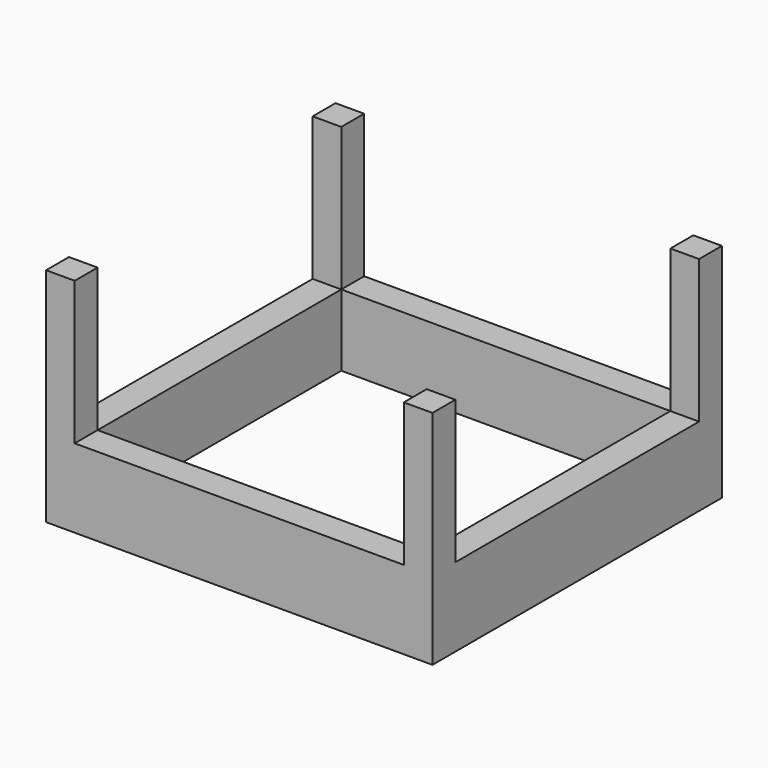
from build123d import *

# Parameters (mm, degrees)
F1_DEPTH = 1.27
F2_W     = 68.58
F2_H     = 64.22644
F2_W_2   = 63.5
F2_H_2   = 59.14644
F2_W_3   = 58.42
F2_H_3   = 54.06644
F3_DEPTH = 12.7
F4_W     = 5.08
F4_H     = 5.08
F5_DEPTH = 25.4


with BuildPart() as f1:
    # F0 (on Top) → F1 (new body)
    with BuildSketch(Plane.XY):
        Polygon((0, -2.54), (0, 0), (0, 59.14644), (63.5, 59.14644), (63.5, 61.68644), (-2.54, 61.68644), (-2.54, 0), (-2.54, -2.54), align=None)
        Polygon((63.5, 0), (0, 0), (0, -2.54), (66.04, -2.54), (66.04, 59.14644), (66.04, 61.68644), (63.5, 61.68644), (63.5, 59.14644), align=None)
    extrude(amount=F1_DEPTH)

    # F2 (on face) → F3 (join)
    with BuildSketch(Plane.XY.offset(1.27)):
        with Locations((31.75, 29.57322)):
            Rectangle(F2_W, F2_H)
        with Locations((31.75, 29.57322)):
            Rectangle(F2_W_2, F2_H_2, mode=Mode.SUBTRACT)
        with Locations((31.75, 29.57322)):
            Rectangle(F2_W_2, F2_H_2)
        with Locations((31.75, 29.57322)):
            Rectangle(F2_W_3, F2_H_3, mode=Mode.SUBTRACT)
    extrude(amount=F3_DEPTH)

    # F4 (on face) → F5 (join)
    with BuildSketch(Plane.XY.offset(13.97)):
        with Locations((0, 59.14644)):
            Rectangle(F4_W, F4_H)
        Rectangle(F4_W, F4_H)
        with Locations((63.5, 0)):
            Rectangle(F4_W, F4_H)
        with Locations((63.5, 59.14644)):
            Rectangle(F4_W, F4_H)
    extrude(amount=F5_DEPTH)


solid = f1.part
